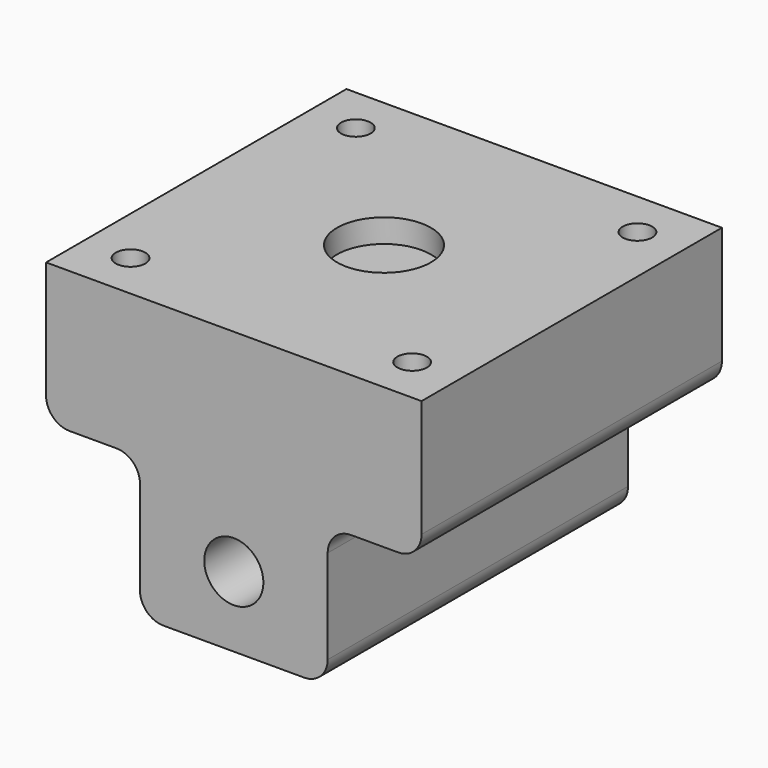
from build123d import *

# Parameters (mm, degrees)
F0_R     = 4
F1_DEPTH = 25.4
F2_R     = 2
F3_DEPTH = 12.7
F4_R     = 6.35
F5_DEPTH = 3.175


with BuildPart() as f1:
    # F0 (on Front) → F1 (new body, symmetric)
    with BuildSketch(Plane.XZ):
        with BuildLine():
            Line((25.4, 0), (-25.4, 0))
            Line((-25.4, 0), (-25.4, -15.875))
            ThreePointArc((-25.4, -15.875), (-24.470064, -18.120064), (-22.225, -19.05))
            Line((-22.225, -19.05), (-15.875, -19.05))
            ThreePointArc((-15.875, -19.05), (-13.629936, -19.979936), (-12.7, -22.225))
            Line((-12.7, -22.225), (-12.7, -34.925))
            ThreePointArc((-12.7, -34.925), (-11.770064, -37.170064), (-9.525, -38.1))
            Line((-9.525, -38.1), (9.525, -38.1))
            ThreePointArc((9.525, -38.1), (11.770064, -37.170064), (12.7, -34.925))
            Line((12.7, -34.925), (12.7, -22.225))
            ThreePointArc((12.7, -22.225), (13.629936, -19.979936), (15.875, -19.05))
            Line((15.875, -19.05), (22.225, -19.05))
            ThreePointArc((22.225, -19.05), (24.470064, -18.120064), (25.4, -15.875))
            Line((25.4, -15.875), (25.4, 0))
        make_face()
        with Locations((0, -28.575)):
            Circle(F0_R, mode=Mode.SUBTRACT)
    extrude(amount=F1_DEPTH, both=True)

    # F2 (on face) → F3 (cut)
    with BuildSketch(Plane.XY):
        with Locations((-19.05, -19.05)):
            Circle(F2_R)
        with Locations((19.05, -19.05)):
            Circle(F2_R)
        with Locations((19.05, 19.05)):
            Circle(F2_R)
        with Locations((-19.05, 19.05)):
            Circle(F2_R)
    extrude(amount=-F3_DEPTH, mode=Mode.SUBTRACT)

    # F4 (on face) → F5 (cut)
    with BuildSketch(Plane.XY):
        Circle(F4_R)
    extrude(amount=-F5_DEPTH, mode=Mode.SUBTRACT)


solid = f1.part
